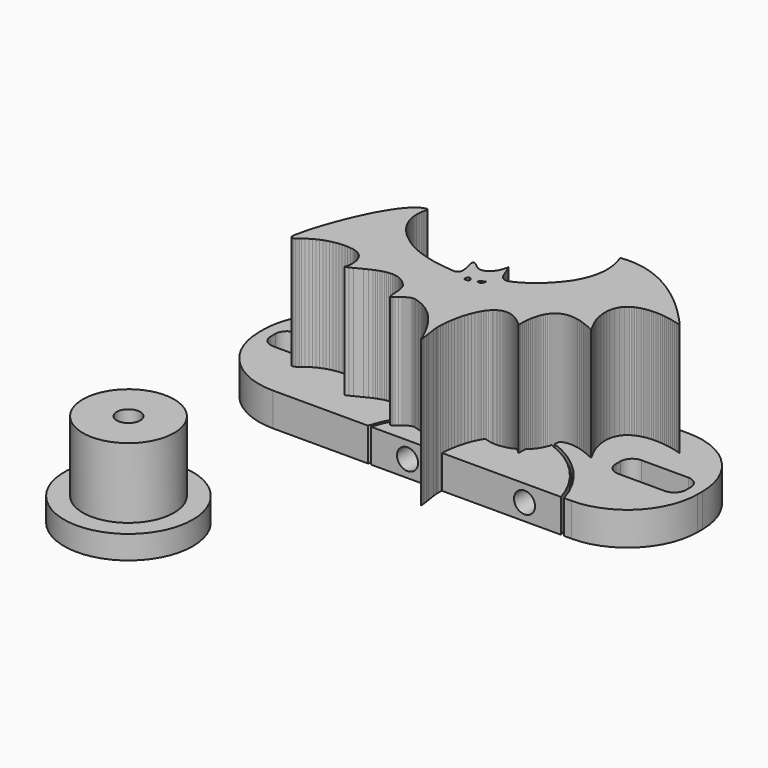
from build123d import *

# Parameters (mm, degrees)
F0_W      = 12
F0_H      = 5
F1_DEPTH  = 5.7
F2_DEPTH  = 5.7
F4_D      = 12.2
F4_2_D    = 12.2
F5_R      = 12
F6_R      = 2
F7_D      = 3.6
F7_2_D    = 3.6
F0_R      = 7.8
F8_DEPTH  = 16
F0_R_2    = 11
F9_DEPTH  = 4
F10_D     = 4
F11_D     = 9.5
F11_DEPTH = 7
F11_TIP   = 2.8540879404
F13_DEPTH = 25


with BuildPart() as f1:
    # F0 (on Top) → F1 (new body)
    with BuildSketch(Plane.XY):
        with BuildLine():
            Line((37.5, -12.5), (37.5, 12.5))
            Line((37.5, 12.5), (-37.5, 12.5))
            Line((-37.5, 12.5), (-37.5, -12.5))
            Line((-37.5, -12.5), (-9.2705098312, -12.5))
            ThreePointArc((-9.2705098312, -12.5), (7.5, 0), (24.2705098312, -12.5))
            Line((24.2705098312, -12.5), (37.5, -12.5))
        make_face()
        with Locations((-29.5, 0)):
            Rectangle(F0_W, F0_H, mode=Mode.SUBTRACT)
        with Locations((29.5, 0)):
            Rectangle(F0_W, F0_H, mode=Mode.SUBTRACT)
    extrude(amount=F1_DEPTH)

    # F4 (through all)
    with Locations(Plane(origin=(0, 0, 0), x_dir=(1, 0, 0), z_dir=(0, 0, -1))):
        with Locations((7.5, 0)):
            Hole(F4_D / 2)

    # F5
    f5_edges = [f1.edges().sort_by_distance(p)[0] for p in [
        (-37.5, 12.5, 2.85),
        (37.5, 12.5, 2.85),
        (-37.5, -12.5, 2.85),
        (37.5, -12.5, 2.85),
    ]]
    fillet(f5_edges, radius=F5_R)

    # F6
    f6_edges = [f1.edges().sort_by_distance(p)[0] for p in [
        (23.5, 2.5, 2.85),
        (-35.5, 2.5, 2.85),
        (-23.5, 2.5, 2.85),
        (35.5, 2.5, 2.85),
        (35.5, -2.5, 2.85),
        (-23.5, -2.5, 2.85),
        (-35.5, -2.5, 2.85),
        (23.5, -2.5, 2.85),
    ]]
    fillet(f6_edges, radius=F6_R)

    # F7 (through all)
    with Locations(Plane(origin=(0, 12.5, 0), x_dir=(-1, 0, 0), z_dir=(0, 1, 0))):
        with Locations((-17.5, 2.85), (2.5, 2.85)):
            Hole(F7_D / 2)


with BuildPart() as f2:
    # F0 (on Top) → F2 (new body)
    with BuildSketch(Plane.XY):
        with BuildLine():
            Line((-8.7480768093, -12.5), (23.7480768093, -12.5))
            ThreePointArc((23.7480768093, -12.5), (7.5, -0.5), (-8.7480768093, -12.5))
        make_face()
    extrude(amount=F2_DEPTH)

    # F4#2 (through all)
    with Locations(Plane(origin=(0, 0, 0), x_dir=(1, 0, 0), z_dir=(0, 0, -1))):
        with Locations((7.5, 0)):
            Hole(F4_2_D / 2)

    # F7#2 (through all)
    with Locations(Plane(origin=(0, 12.5, 0), x_dir=(-1, 0, 0), z_dir=(0, 1, 0))):
        with Locations((-17.5, 2.85), (2.5, 2.85)):
            Hole(F7_2_D / 2)


with BuildPart() as f8:
    # F0 (on Top) → F8 (new body)
    with BuildSketch(Plane.XY):
        with Locations((-23.5767476261, -45.7843989134)):
            Circle(F0_R)
    extrude(amount=F8_DEPTH)

    # F0 (on Top) → F9 (join)
    with BuildSketch(Plane.XY):
        with Locations((-23.5767476261, -45.7843989134)):
            Circle(F0_R_2)
        with Locations((-23.5767476261, -45.7843989134)):
            Circle(F0_R, mode=Mode.SUBTRACT)
    extrude(amount=F9_DEPTH)

    # F10 (through all)
    with Locations(Plane(origin=(0, 0, 0), x_dir=(1, 0, 0), z_dir=(0, 0, -1))):
        with Locations((-23.5767476261, 45.7843989134)):
            Hole(F10_D / 2)

    # F11
    with Locations(Plane(origin=(0, 0, 0), x_dir=(1, 0, 0), z_dir=(0, 0, -1))):
        with Locations((-23.5767476261, 45.7843989134)):
            Hole(F11_D / 2, depth=F11_DEPTH)
            with Locations((0, 0, -(F11_DEPTH + F11_TIP / 2))):  # 118° drill point
                Cone(0, F11_D / 2, F11_TIP, mode=Mode.SUBTRACT)


with BuildPart() as f13:
    # F12 (on Top) → F13 (new body)
    with BuildSketch(Plane.XY):
        Polygon((3.54965, -16.8828212), (3.8398704, -17.5583596), (3.8497002, -17.4313342), (3.8453822, -17.2632116), (3.828796, -17.0587162), (3.8018212, -16.8226232), (3.7240972, -16.2745166), (3.627247, -15.656814), (3.435858, -14.3641318), (3.3712658, -13.7649458), (3.353308, -13.49375), (3.3473898, -13.2477764), (3.3625282, -12.7662686), (3.3932876, -12.2644154), (3.4399728, -11.7462554), (3.5028632, -11.2159288), (3.5822128, -10.6774742), (3.6783264, -10.134981), (3.791458, -9.592564), (3.9219378, -9.0542618), (4.0699944, -8.5241892), (4.235958, -8.0063848), (4.4200572, -7.5049888), (4.6225968, -7.0240398), (4.8438816, -6.5676272), (4.9616106, -6.3498984), (5.0841402, -6.1398404), (5.2114958, -5.9379612), (5.3437028, -5.7447688), (5.4807866, -5.5607712), (5.6228234, -5.3864764), (5.8718958, -5.1175412), (6.0017152, -4.9945798), (6.1350906, -4.8796956), (6.272022, -4.7731934), (6.4125602, -4.675378), (6.5566798, -4.5865288), (6.704457, -4.5069506), (6.8558664, -4.4369736), (7.0109334, -4.3768518), (7.1697088, -4.3269154), (7.3321672, -4.2874692), (7.4983848, -4.2587926), (7.6683362, -4.2411904), (7.8420722, -4.2349674), (8.0195928, -4.2404284), (8.2009234, -4.2578782), (8.386064, -4.2875962), (8.5750908, -4.3298872), (8.7679784, -4.3850814), (8.9647522, -4.4534328), (9.165463, -4.535297), (9.3700854, -4.6309026), (9.5786702, -4.7406052), (9.7912174, -4.8647096), (10.0077778, -5.0034698), (10.2283514, -5.157216), (10.4529382, -5.3262276), (10.6816144, -5.5108602), (10.9143546, -5.7113424), (11.1511842, -5.9280298), (11.3921286, -6.1611764), (11.3881408, -5.7366662), (11.394948, -5.3202332), (11.412855, -4.9126902), (11.4422428, -4.5148246), (11.4834162, -4.1274492), (11.5367816, -3.751326), (11.6026184, -3.3872678), (11.6812822, -3.0360874), (11.773154, -2.6985722), (11.8785386, -2.3755096), (11.9977916, -2.067687), (12.1312686, -1.7759172), (12.2792998, -1.5009876), (12.4422408, -1.2436856), (12.6204218, -1.004824), (12.8141984, -0.7851902), (13.0104896, -0.597281), (13.2211064, -0.4276598), (13.4463282, -0.2770124), (13.6864344, -0.1459738), (13.9417044, -0.0352044), (14.212443, 0.05461), (14.4989042, 0.1228598), (14.8013928, 0.1688592), (15.1201628, 0.1919224), (15.4555444, 0.1914398), (15.8077916, 0.1667256), (16.1772092, 0.1171448), (16.5640512, 0.0420116), (16.9686224, -0.059309), (17.3912276, -0.1874774), (17.8320954, -0.343154), (18.2973726, -0.5174996), (18.7782962, -0.7139432), (19.2748916, -0.9323324), (19.7871842, -1.1725402), (19.7753224, -1.1176254), (19.7509892, -1.0473182), (19.6688456, -0.8629904), (19.398742, -0.336677), (19.040729, 0.3670808), (18.848705, 0.7732522), (18.6586622, 1.2090654), (18.5265314, 1.6343376), (18.4152794, 2.0436586), (18.324449, 2.437257), (18.2535068, 2.8153868), (18.2019448, 3.1782258), (18.1693058, 3.526028), (18.1550564, 3.859022), (18.158714, 4.177411), (18.179796, 4.481449), (18.2177944, 4.7713646), (18.2721758, 5.047361), (18.342483, 5.3096668), (18.4282334, 5.558536), (18.5288682, 5.7941464), (18.6439556, 6.0167774), (18.7729622, 6.2266068), (18.9051184, 6.4106552), (19.048476, 6.5839594), (19.2026794, 6.7467734), (19.3672968, 6.8992242), (19.5419472, 7.041515), (19.7262242, 7.173849), (19.9197214, 7.2963786), (20.1220324, 7.409307), (20.3327508, 7.512812), (20.551521, 7.607046), (20.7778858, 7.692263), (21.0114896, 7.7685646), (21.2519006, 7.8362048), (21.4987378, 7.8953106), (21.7515694, 7.9461106), (22.0100398, 7.9887318), (22.368891, 8.0338168), (22.7363274, 8.0646778), (23.1113584, 8.081772), (23.4929934, 8.085582), (23.8802164, 8.0765396), (24.2720114, 8.055102), (24.6673878, 8.0217264), (25.065355, 7.97687), (25.4649224, 7.92099), (25.8650486, 7.8545182), (26.264743, 7.7779118), (26.663015, 7.691628), (27.0588486, 7.596124), (27.4512532, 7.491857), (27.8392128, 7.3792842), (28.2217622, 7.2588374), (27.6908006, 7.8598014), (27.1341088, 8.471281), (26.5527028, 9.0898218), (25.9476494, 9.7118932), (25.3200408, 10.3340408), (24.6708676, 10.952734), (24.001222, 11.5645184), (23.3121454, 12.165838), (22.6047046, 12.7532638), (21.879941, 13.3232906), (21.1389214, 13.8723878), (20.3826872, 14.3970756), (19.999198, 14.649196), (19.6122798, 14.8938996), (19.2221104, 15.1307546), (18.8287914, 15.3593038), (18.4324752, 15.5791662), (18.0332634, 15.7898338), (17.6313084, 15.990951), (17.2267372, 16.1820098), (16.781907, 16.3787328), (16.3342828, 16.5624002), (15.8840424, 16.7324532), (15.4313636, 16.888333), (14.9764242, 17.0294046), (14.5193512, 17.1551854), (14.0603478, 17.2650404), (13.5995918, 17.3584362), (13.137261, 17.4347886), (12.6734824, 17.4935134), (12.2084592, 17.5340772), (11.7423692, 17.5558958), (11.2753648, 17.558385), (10.8076238, 17.540986), (10.3392986, 17.5031146), (9.8706178, 17.4442374), (9.9917758, 17.144619), (10.1019102, 16.8450514), (10.201148, 16.5456362), (10.289667, 16.246475), (10.3675688, 15.947644), (10.4350312, 15.6492702), (10.4922066, 15.3514298), (10.539222, 15.0542498), (10.5762298, 14.7578064), (10.6033824, 14.4622266), (10.6208322, 14.1675866), (10.6287062, 13.873988), (10.6271822, 13.5815578), (10.6163872, 13.2903468), (10.5964482, 13.000482), (10.5675684, 12.7120904), (10.5298494, 12.4252228), (10.4834436, 12.1400062), (10.4285288, 11.8565422), (10.3652066, 11.574907), (10.2936802, 11.2952276), (10.2140512, 11.0176056), (10.126472, 10.7421172), (10.031095, 10.468864), (9.9280726, 10.197973), (9.8175572, 9.9295204), (9.6997012, 9.6636078), (9.5746316, 9.4003368), (9.3034612, 8.8821514), (9.0052398, 8.3757262), (8.6908894, 7.9446628), (8.366887, 7.5227688), (8.0329532, 7.1106792), (7.6887832, 6.7090544), (7.3340976, 6.3185548), (6.968617, 5.93979), (6.5920366, 5.5734204), (6.2041024, 5.2201064), (5.8044842, 4.8804576), (5.392928, 4.5551598), (4.9691036, 4.2448226), (4.532757, 3.9501318), (4.0836088, 3.671697), (3.6213288, 3.4101786), (3.145663, 3.166237), (2.6563066, 2.9404818), (2.5016968, 2.8868116), (2.3553166, 2.8491434), (2.2168104, 2.8268168), (2.0857972, 2.8191206), (1.9619722, 2.8253944), (1.8449798, 2.8449524), (1.7344644, 2.8771342), (1.6300704, 2.9212286), (1.5314676, 2.9765498), (1.4383258, 3.0424374), (1.350264, 3.1182056), (1.266952, 3.2031686), (1.1880342, 3.2966406), (1.1131804, 3.3979612), (0.9742678, 3.6213542), (0.8273542, 3.910711), (0.6925056, 4.2229786), (0.4413504, 4.8815498), (0.1856232, 5.5278274), (0.0450596, 5.824728), (-0.1098296, 6.092571), (-0.1206754, 5.8973974), (-0.1473708, 5.6948324), (-0.189357, 5.4869588), (-0.245999, 5.2758594), (-0.316738, 5.063617), (-0.400939, 4.852289), (-0.4980432, 4.644009), (-0.6074156, 4.440809), (-0.7284974, 4.2447972), (-0.8606536, 4.0580818), (-1.0033254, 3.8827202), (-1.1559032, 3.7207952), (-1.317752, 3.5743896), (-1.4883384, 3.4455862), (-1.6670528, 3.3364932), (-1.8532602, 3.249168), (-1.9581876, 3.211322), (-2.0651216, 3.1809944), (-2.1739352, 3.1585154), (-2.2845268, 3.1442152), (-2.3968202, 3.138424), (-2.5106884, 3.1415228), (-2.6260552, 3.1538418), (-2.742819, 3.1757112), (-2.8608782, 3.2074612), (-2.9801312, 3.2494728), (-3.1004764, 3.3020508), (-3.2218376, 3.3655508), (-3.3440624, 3.4403284), (-3.4671254, 3.5267138), (-3.5908742, 3.6250372), (-3.7152072, 3.7356542), (-3.892423, 3.8843458), (-4.0484298, 4.0057324), (-4.1843706, 4.1010078), (-4.3012868, 4.1714674), (-4.4003214, 4.2182796), (-4.4825158, 4.2427398), (-4.5489876, 4.2460672), (-4.6008036, 4.2295318), (-4.6390814, 4.1943274), (-4.6649132, 4.141724), (-4.6793404, 4.0729408), (-4.683506, 3.9892478), (-4.6653196, 3.7820346), (-4.6190662, 3.5300158), (-4.4772834, 2.9312616), (-4.3278552, 2.2723348), (-4.2720514, 1.9451066), (-4.2404792, 1.6326358), (-4.2365168, 1.485011), (-4.2418762, 1.3448284), (-4.257675, 1.2132564), (-4.2849546, 1.0915904), (-4.3496992, 0.9814306), (-4.420489, 0.8892794), (-4.4969938, 0.8136636), (-4.5788326, 0.7531862), (-4.6656244, 0.7064756), (-4.757039, 0.6721094), (-4.85267, 0.6486906), (-4.9521872, 0.6347714), (-5.1613308, 0.6299454), (-5.3815742, 0.6463284), (-5.843524, 0.6978904), (-6.3594488, 0.7481316), (-6.8761864, 0.8073898), (-7.3931018, 0.8761984), (-7.9094838, 0.9551416), (-8.4246466, 1.0447274), (-8.9379298, 1.1454892), (-9.4486476, 1.2579858), (-9.9561142, 1.3827506), (-10.4596692, 1.5203424), (-10.9586014, 1.6712692), (-11.4522504, 1.8360898), (-11.9399304, 2.015363), (-12.4209556, 2.2095968), (-12.8946656, 2.41935), (-13.3603492, 2.645156), (-13.8173714, 2.8875736), (-14.34592, 3.2107124), (-14.8656294, 3.5553142), (-15.3729182, 3.9213028), (-15.864078, 4.3085004), (-16.3355274, 4.7168308), (-16.5627304, 4.9288446), (-16.7836088, 5.1460908), (-16.9977562, 5.368544), (-17.20469, 5.5962042), (-17.403953, 5.829046), (-17.5951134, 6.0670186), (-17.777714, 6.3101728), (-17.9512976, 6.5584324), (-18.1153816, 6.8117974), (-18.2695342, 7.0702678), (-18.4132982, 7.3338182), (-18.5462418, 7.6024232), (-18.6678824, 7.8760574), (-18.7777628, 8.1547462), (-18.8754258, 8.4384388), (-18.9604396, 8.7271352), (-19.032347, 9.02081), (-19.0906908, 9.3194378), (-19.1349884, 9.623044), (-19.1648334, 9.9315524), (-19.1797178, 10.2449884), (-19.1792352, 10.5633012), (-19.1372236, 10.8920026), (-19.101181, 11.2160812), (-19.052032, 11.537188), (-19.016599, 11.6971318), (-18.9707266, 11.8569486), (-18.9374526, 12.0789192), (-18.9341506, 12.1690638), (-18.9392052, 12.2460258), (-18.95221, 12.3103386), (-18.972784, 12.3625102), (-19.0004954, 12.4031248), (-19.0349378, 12.4326904), (-19.1982344, 12.4102622), (-19.3620136, 12.3746006), (-19.5261738, 12.3260104), (-19.6906642, 12.2648218), (-19.8554086, 12.191365), (-20.0203308, 12.1059194), (-20.1854054, 12.0088406), (-20.3505562, 11.9004842), (-20.5156816, 11.7811042), (-20.6807562, 11.6510816), (-20.8456784, 11.5106958), (-21.0103974, 11.3603024), (-21.3389718, 11.0307374), (-21.6659714, 10.6650028), (-21.990812, 10.2656386), (-22.3129856, 9.835261), (-22.6319842, 9.3764354), (-22.947249, 8.8917526), (-23.2582466, 8.3838288), (-23.564469, 7.855204), (-23.8653828, 7.3084944), (-24.1604546, 6.7462654), (-24.537543, 5.9898788), (-24.9024902, 5.2171092), (-25.2540516, 4.433824), (-25.5910334, 3.6458398), (-25.9122672, 2.8589732), (-26.2165592, 2.0790662), (-26.5026648, 1.3119608), (-26.7694156, 0.5634736), (-27.0156178, -0.1605534), (-27.2400776, -0.8543036), (-27.4415758, -1.5119096), (-27.6189186, -2.1275802), (-27.7709122, -2.695448), (-27.8963882, -3.2096964), (-27.994102, -3.6645088), (-28.0628852, -4.0540432), (-28.1388058, -4.326509), (-28.1900122, -4.5680884), (-28.217368, -4.778883), (-28.2217622, -4.9589436), (-28.2040838, -5.1083464), (-28.1651964, -5.227193), (-28.1380438, -5.2751736), (-28.1059382, -5.3155342), (-28.0689812, -5.3483002), (-28.027249, -5.3734716), (-27.9808686, -5.3910484), (-27.929967, -5.401056), (-27.8149558, -5.398389), (-27.6831298, -5.3655214), (-27.5353272, -5.3025548), (-27.3724624, -5.20954), (-27.1953736, -5.086604), (-27.0049498, -4.9337722), (-26.8020546, -4.7511208), (-26.4179304, -4.4643294), (-26.019506, -4.1979596), (-25.6079244, -3.9524178), (-25.1843794, -3.728085), (-24.750014, -3.5253676), (-24.306022, -3.344672), (-23.8535718, -3.1864046), (-23.3938318, -3.0509464), (-22.927945, -2.9387292), (-22.4571306, -2.8501086), (-21.9825316, -2.7855418), (-21.5053164, -2.745359), (-21.0266534, -2.7300174), (-20.5477364, -2.739898), (-20.0697084, -2.7754072), (-19.5937378, -2.8369514), (-19.3775584, -2.880106), (-19.1713866, -2.934081), (-18.9751462, -2.9984954), (-18.7887864, -3.0729428), (-18.6121802, -3.1569914), (-18.4452514, -3.2502602), (-18.2879746, -3.3523174), (-18.1401974, -3.462782), (-18.0018944, -3.5812476), (-17.8729386, -3.7073078), (-17.7532792, -3.8405562), (-17.6428146, -3.9805864), (-17.541494, -4.126992), (-17.4491904, -4.2793666), (-17.3658784, -4.4373038), (-17.291431, -4.6003972), (-17.225772, -4.7682658), (-17.1688506, -4.9404524), (-17.1205652, -5.1166268), (-17.0808396, -5.2963064), (-17.0495722, -5.4791356), (-17.0267122, -5.664708), (-17.012158, -5.8525918), (-17.0058334, -6.042406), (-17.0076368, -6.2337442), (-17.0175428, -6.4261746), (-17.0354244, -6.6193162), (-17.0612054, -6.8127626), (-17.0948096, -7.0061074), (-17.1361608, -7.1989442), (-17.1851828, -7.3908666), (-17.241774, -7.5814682), (-16.6642034, -7.321042), (-16.0796478, -7.0352412), (-14.8950934, -6.432804), (-14.2978632, -6.1388244), (-13.6991598, -5.8647838), (-13.3996938, -5.738749), (-13.1003802, -5.6219852), (-12.8013968, -5.5158386), (-12.5029214, -5.421757), (-12.189841, -5.3374544), (-11.8777004, -5.2697126), (-11.5666774, -5.2201318), (-11.2570006, -5.1903884), (-10.9488478, -5.182108), (-10.6424222, -5.196967), (-10.3379016, -5.2365656), (-10.03554, -5.3025548), (-9.7354898, -5.396611), (-9.4379796, -5.5203598), (-9.1431872, -5.6754522), (-8.8513158, -5.8635138), (-8.5625686, -6.086221), (-8.2771742, -6.3451994), (-7.995285, -6.6421), (-7.7171296, -6.9785738), (-7.6070714, -7.2020938), (-7.5183238, -7.428865), (-7.4483468, -7.6582016), (-7.3945242, -7.8893416), (-7.354316, -8.1215484), (-7.3251314, -8.3541362), (-7.2895206, -8.8175084), (-7.2671178, -9.2736162), (-7.237349, -9.7166938), (-7.2132698, -9.9315524), (-7.1796148, -10.14095), (-7.1338186, -10.3442008), (-7.0733158, -10.5405682), (-7.0192392, -10.5275634), (-6.9603874, -10.5048304), (-6.8291456, -10.4332532), (-6.6811906, -10.331704), (-6.5180972, -10.2061518), (-6.1527436, -9.9066604), (-5.7457086, -9.5822008), (-5.5305198, -9.4254066), (-5.309616, -9.2801186), (-5.0845974, -9.1523058), (-4.8570642, -9.047861), (-4.6285404, -8.9727278), (-4.5144182, -8.9479882), (-4.4006516, -8.932799), (-4.2874184, -8.9278968), (-4.1749472, -8.9340436), (-4.0633904, -8.9519252), (-3.9529766, -8.982329), (-3.5804094, -9.0873834), (-3.2179768, -9.2089732), (-2.865501, -9.346565), (-2.5228296, -9.4995238), (-2.189734, -9.6672146), (-1.8660872, -9.8490786), (-1.551686, -10.0444808), (-1.2463272, -10.252837), (-0.9498584, -10.4735122), (-0.662051, -10.7059222), (-0.382778, -10.9494574), (-0.1118362, -11.2035082), (0.1509776, -11.467465), (0.4058412, -11.7407182), (0.652907, -12.0226582), (0.8923782, -12.3127008), (1.1244326, -12.610211), (1.349248, -12.9146046), (1.5670276, -13.225272), (1.7779492, -13.5415782), (1.9821906, -13.8629644), (2.1799042, -14.1887956), (2.5566116, -14.85138), (2.9094938, -15.52448), (3.240024, -16.2032442), align=None)
        Polygon((-2.2818598, 0.459359), (-2.2197822, 0.4675124), (-2.103247, 0.3914394), (-2.0027646, 0.3125724), (-1.9186144, 0.2321814), (-1.8511012, 0.1514856), (-1.8005044, 0.0717296), (-1.767078, -0.005842), (-1.7511268, -0.0799846), (-1.7529302, -0.1494536), (-1.7727676, -0.2130044), (-1.810893, -0.2694178), (-1.8676112, -0.3174492), (-1.943227, -0.355854), (-2.037969, -0.3833622), (-2.152142, -0.39878), (-2.2860508, -0.4008628), (-2.439924, -0.3883152), (-2.489454, -0.3479546), (-2.5285446, -0.298069), (-2.5576276, -0.2403348), (-2.5771094, -0.1763776), (-2.5874726, -0.1079246), (-2.5890982, -0.0366014), (-2.5824688, 0.035941), (-2.5679908, 0.1080262), (-2.545969, 0.1780032), (-2.5169622, 0.2441702), (-2.4813768, 0.3048762), (-2.43967, 0.3584194), (-2.3922228, 0.4031488), (-2.3394924, 0.4373372), align=None, mode=Mode.SUBTRACT)
        Polygon((0.2092706, 0.8680196), (0.2510536, 0.853821), (0.1930908, 0.6452108), (0.120142, 0.4608576), (0.0774954, 0.3798062), (0.0304546, 0.3072638), (-0.021209, 0.2440432), (-0.077724, 0.1909318), (-0.1387094, 0.149225), (-0.2048764, 0.1191006), (-0.2764282, 0.1013714), (-0.3535426, 0.0967994), (-0.436499, 0.1061974), (-0.5254498, 0.1303782), (-0.6206236, 0.1701038), (-0.722249, 0.2262124), (-0.7088632, 0.2760218), (-0.6803136, 0.3301492), (-0.6385052, 0.38735), (-0.5852922, 0.4464304), (-0.4522724, 0.5652516), (-0.2964434, 0.6767068), (-0.132969, 0.7710678), (0.0229616, 0.8385556), (0.0932942, 0.859155), (0.1560322, 0.8693912), align=None, mode=Mode.SUBTRACT)
    extrude(amount=F13_DEPTH)


solid = Compound([f1.part, f2.part, f8.part, f13.part])
